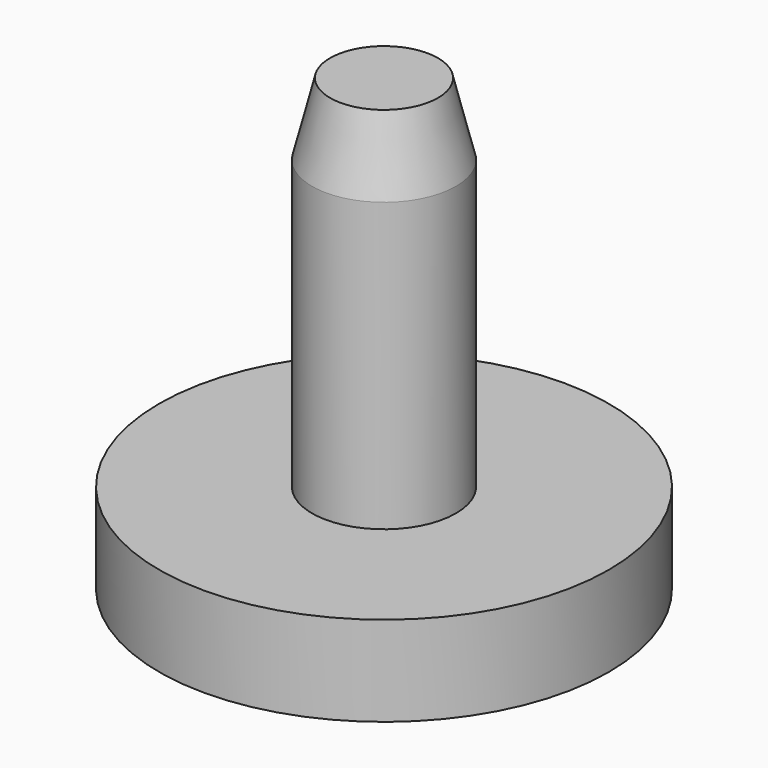
from build123d import *

# Parameters (mm, degrees)
F0_R     = 12.5
F1_DEPTH = 5
F2_R     = 4
F3_DEPTH = 20
F4_SIZE2 = 4
F4_SIZE  = 1
F5_R     = 1.75
F6_DEPTH = 24


with BuildPart() as f1:
    # F0 (on Top) → F1 (new body)
    with BuildSketch(Plane.XY):
        Circle(F0_R)
    extrude(amount=F1_DEPTH)

    # F2 (on face) → F3 (join)
    with BuildSketch(Plane.XY.offset(5)):
        Circle(F2_R)
    extrude(amount=F3_DEPTH)

    # F4
    f4_edges = [f1.edges().sort_by_distance(p)[0] for p in [
        (-4, 0, 25),
    ]]
    f4_side = f1.faces().sort_by_distance((0, 0, 25))[0]
    chamfer(f4_edges, length=F4_SIZE, length2=F4_SIZE2, reference=f4_side)

    # F5 (on face) → F6 (cut)
    with BuildSketch(Plane(origin=(0, 0, 0), x_dir=(1, 0, 0), z_dir=(0, 0, -1))):
        Circle(F5_R)
    extrude(amount=-F6_DEPTH, mode=Mode.SUBTRACT)


solid = f1.part
